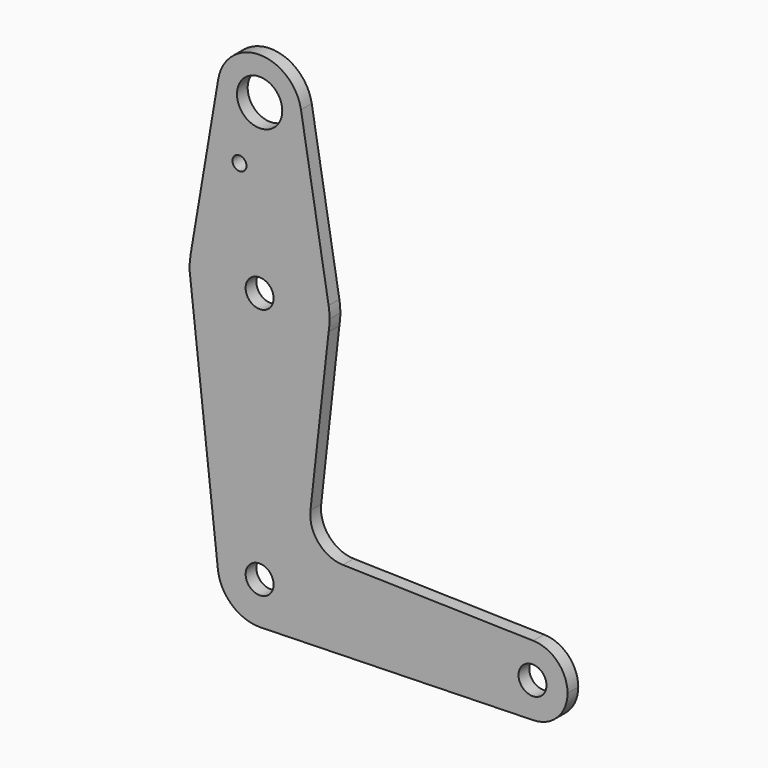
from build123d import *

# Parameters (mm, degrees)
F0_R     = 5.139884
F0_R_2   = 1.5875
F0_R_3   = 3.175
F0_R_4   = 3.174261
F1_DEPTH = 3.048


with BuildPart() as f1:
    # F0 (on Front) → F1 (new body)
    with BuildSketch(Plane.XZ):
        with BuildLine():
            ThreePointArc((-9.391777, 96.8375), (-0.79654, 85.758364), (9.525, 95.25))
            ThreePointArc((9.525, 95.25), (9.491636, 96.04654), (9.391777, 96.8375))
            ThreePointArc((9.391777, 96.8375), (0, 104.775), (-9.391777, 96.8375))
        make_face()
        with Locations((0, 95.25)):
            Circle(F0_R, mode=Mode.SUBTRACT)
        with BuildLine():
            ThreePointArc((9.391777, 96.8375), (9.491636, 96.04654), (9.525, 95.25))
            ThreePointArc((9.525, 95.25), (-0.79654, 85.758364), (-9.391777, 96.8375))
            Line((-9.391777, 96.8375), (-15.652961, 59.795833))
            ThreePointArc((-15.652961, 59.795833), (0, 73.025), (15.652961, 59.795833))
            Line((15.652961, 59.795833), (9.391777, 96.8375))
        make_face()
        with Locations((-4.567989, 81.601493)):
            Circle(F0_R_2, mode=Mode.SUBTRACT)
        with BuildLine():
            ThreePointArc((15.875, 57.15), (15.819393, 58.477567), (15.652961, 59.795833))
            ThreePointArc((15.652961, 59.795833), (0, 73.025), (-15.652961, 59.795833))
            ThreePointArc((-15.652961, 59.795833), (-15.875, 57.15), (-15.652961, 54.504167))
            ThreePointArc((-15.652961, 54.504167), (0, 41.275), (15.652961, 54.504167))
            ThreePointArc((15.652961, 54.504167), (15.819393, 55.822433), (15.875, 57.15))
        make_face()
        with Locations((0, 57.15)):
            Circle(F0_R_3, mode=Mode.SUBTRACT)
        with BuildLine():
            ThreePointArc((15.652961, 54.504167), (0, 41.275), (-15.652961, 54.504167))
            Line((-15.652961, 54.504167), (-9.466493, -1.054103))
            ThreePointArc((-9.466493, -1.054103), (-0.527863, 9.510362), (9.525, 0))
            ThreePointArc((9.525, 0), (6.905344, -6.560628), (0.487342, -9.512525))
            Line((0.487342, -9.512525), (62.115626, -7.934901))
            ThreePointArc((62.115626, -7.934901), (53.975, 0), (62.115626, 7.934901))
            Line((62.115626, 7.934901), (18.910892, 9.0409))
            ThreePointArc((18.910892, 9.0409), (13.362859, 11.650215), (11.532699, 17.501687))
            Line((11.532699, 17.501687), (15.652961, 54.504167))
        make_face()
        with BuildLine():
            ThreePointArc((9.525, 0), (-0.527863, 9.510362), (-9.466493, -1.054103))
            ThreePointArc((-9.466493, -1.054103), (-6.351586, -7.098097), (0, -9.525))
            Line((0, -9.525), (0.487342, -9.512525))
            ThreePointArc((0.487342, -9.512525), (6.905344, -6.560628), (9.525, 0))
        make_face()
        Circle(F0_R_4, mode=Mode.SUBTRACT)
        with BuildLine():
            Line((0.487342, -9.512525), (0, -9.525))
            ThreePointArc((0, -9.525), (0.243751, -9.521881), (0.487342, -9.512525))
        make_face()
        with BuildLine():
            ThreePointArc((69.85, 0), (67.596522, 5.540379), (62.115626, 7.934901))
            ThreePointArc((62.115626, 7.934901), (53.975, 0), (62.115626, -7.934901))
            ThreePointArc((62.115626, -7.934901), (67.596522, -5.540379), (69.85, 0))
        make_face()
        with Locations((61.9125, 0)):
            Circle(F0_R_3, mode=Mode.SUBTRACT)
    extrude(amount=F1_DEPTH)


solid = f1.part
